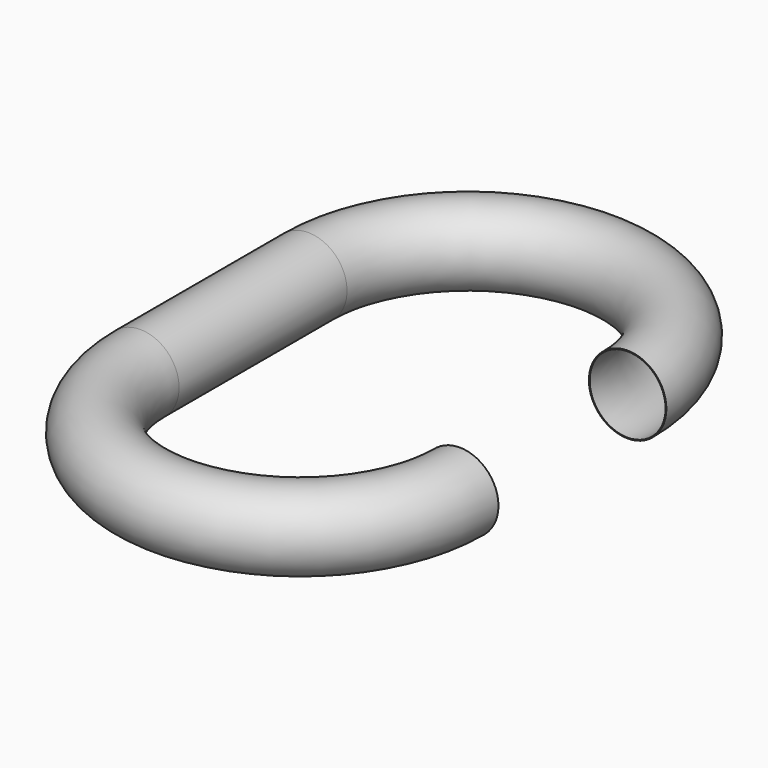
from build123d import *

# Parameters (mm, degrees)
F0_R   = 76.2
F0_R_2 = 74.6125


with BuildPart() as f2:
    # F2: sweep along a path in F1
    with BuildLine(Plane.XY) as f2_path:
        ThreePointArc((-76.2, 412.75), (-313.923171, 650.473171), (-551.646343, 412.75))
        Line((-551.646343, 412.75), (-551.646343, 0))
        ThreePointArc((-551.646343, 0), (-313.923171, -237.723171), (-76.2, 0))
    # F0 (on Front) → F2 (sweep)
    with BuildSketch(Plane.XZ):
        Circle(F0_R)
        Circle(F0_R_2, mode=Mode.SUBTRACT)
    sweep(path=f2_path.line)


solid = f2.part
